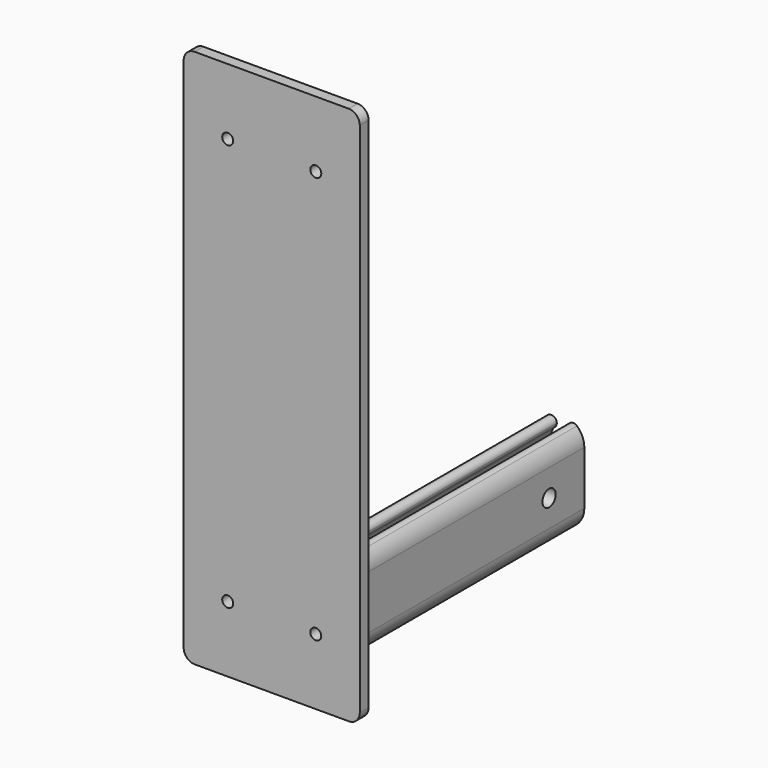
from build123d import *

# Parameters (mm, degrees)
F0_R     = 1.5875
F1_DEPTH = 3.175
F3_DEPTH = 101.6
F4_R     = 2.38125
F5_DEPTH = 31.751


with BuildPart() as f1:
    # F0 (on Front) → F1 (new body)
    with BuildSketch(Plane.XZ):
        with BuildLine():
            Line((-47.625, 0), (-3.175, 0))
            ThreePointArc((-3.175, 0), (-0.929936, 0.929936), (0, 3.175))
            Line((0, 3.175), (0, 152.4))
            ThreePointArc((0, 152.4), (-0.929936, 154.645064), (-3.175, 155.575))
            Line((-3.175, 155.575), (-47.625, 155.575))
            ThreePointArc((-47.625, 155.575), (-49.870064, 154.645064), (-50.8, 152.4))
            Line((-50.8, 152.4), (-50.8, 3.175))
            ThreePointArc((-50.8, 3.175), (-49.870064, 0.929936), (-47.625, 0))
        make_face()
        with Locations((-38.1, 19.05)):
            Circle(F0_R, mode=Mode.SUBTRACT)
        with Locations((-12.7, 19.05)):
            Circle(F0_R, mode=Mode.SUBTRACT)
        with Locations((-38.1, 136.525)):
            Circle(F0_R, mode=Mode.SUBTRACT)
        with Locations((-12.7, 136.525)):
            Circle(F0_R, mode=Mode.SUBTRACT)
    extrude(amount=-F1_DEPTH)

    # F2 (on face) → F3 (join)
    with BuildSketch(Plane(origin=(0, 3.175, 0), x_dir=(-1, 0, 0), z_dir=(0, 1, 0))):
        with BuildLine():
            ThreePointArc((27.517005, 24.217467), (28.298458, 23.147245), (28.575, 21.851264))
            Line((28.575, 21.851264), (28.575, 6.35))
            ThreePointArc((28.575, 6.35), (25.4, 3.175), (22.225, 6.35))
            Line((22.225, 6.35), (22.225, 21.850242))
            ThreePointArc((22.225, 21.850242), (22.501635, 23.14643), (23.283333, 24.216747))
            ThreePointArc((23.283333, 24.216747), (23.674183, 24.751906), (23.8125, 25.4))
            ThreePointArc((23.8125, 25.4), (22.873094, 26.849183), (21.166667, 26.583253))
            ThreePointArc((21.166667, 26.583253), (19.60327, 24.442619), (19.05, 21.850242))
            Line((19.05, 21.850242), (19.05, 6.35))
            ThreePointArc((19.05, 6.35), (25.4, 0), (31.75, 6.35))
            Line((31.75, 6.35), (31.75, 21.851264))
            ThreePointArc((31.75, 21.851264), (31.197009, 24.443019), (29.634349, 26.583366))
            ThreePointArc((29.634349, 26.583366), (27.927668, 26.849523), (26.988262, 25.4))
            ThreePointArc((26.988262, 25.4), (27.126467, 24.752321), (27.517005, 24.217467))
        make_face()
    extrude(amount=F3_DEPTH)

    # F4 (on face) → F5 (cut, through all)
    with BuildSketch(Plane.YZ.offset(-19.05)):
        with Locations((15.875, 14.100121)):
            Circle(F4_R)
        with Locations((92.075, 14.100121)):
            Circle(F4_R)
    extrude(amount=-F5_DEPTH, mode=Mode.SUBTRACT)


solid = f1.part
